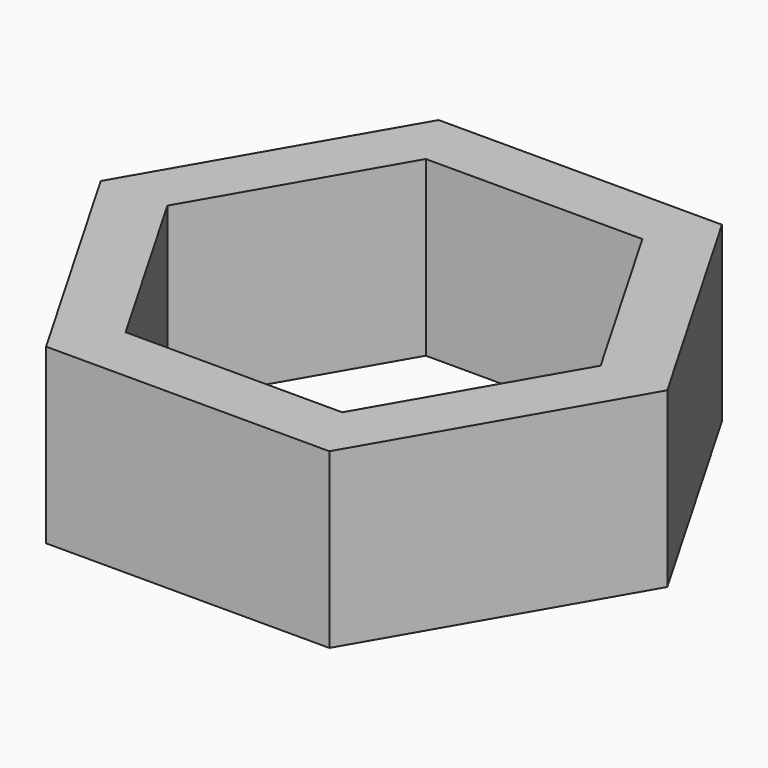
from build123d import *

# Parameters (mm, degrees)
PAD_DEPTH = 6


with BuildPart() as part:
    # Sketch → Pad (new body)
    with BuildSketch(Plane.XY):
        Polygon((9.814955, 0), (4.907477, 8.5), (-4.907477, 8.5), (-9.814955, 0), (-4.907477, -8.5), (4.907477, -8.5), align=None)
        Polygon((7.505553, 0), (3.752777, 6.5), (-3.752777, 6.5), (-7.505553, 0), (-3.752777, -6.5), (3.752777, -6.5), align=None, mode=Mode.SUBTRACT)
    extrude(amount=PAD_DEPTH)


solid = part.part
